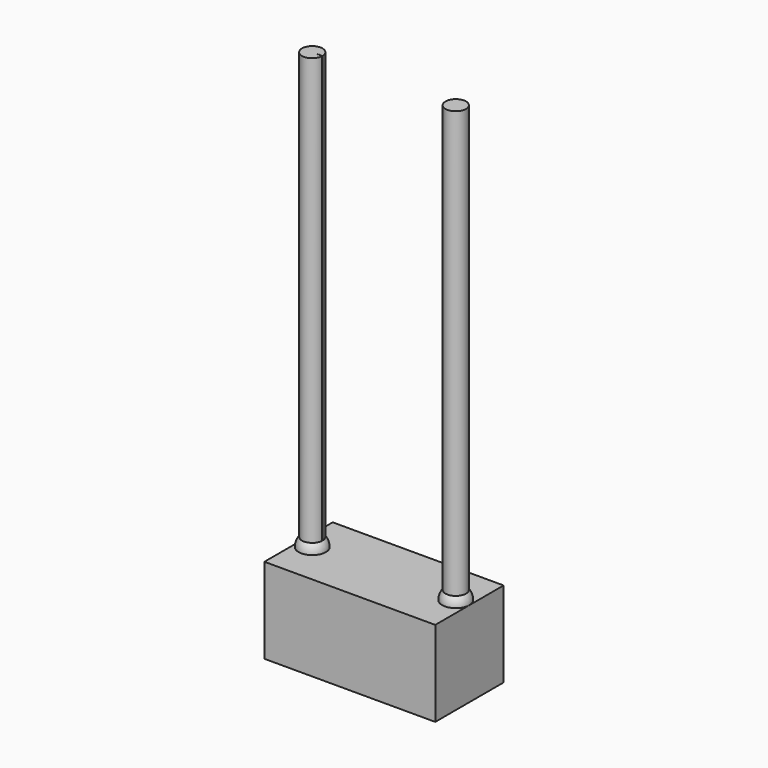
from build123d import *

# Parameters (mm, degrees)
BOX_W             = 10
BOX_H             = 5
BOX_DEPTH         = 5
CYLINDER_R        = 0.6
CYLINDER_DEPTH    = 25
CYLINDER001_W     = 0.6
CYLINDER001_H     = 25
CYLINDER001_ANGLE = 358


with BuildPart() as body:
    # Box → Box (join)
    with BuildSketch(Plane.XY):
        with Locations((5, 2.5)):
            Rectangle(BOX_W, BOX_H)
    extrude(amount=BOX_DEPTH)


with BuildPart() as body001:
    # Sphere → Sphere (revolve)
    with BuildSketch(Plane(origin=(0.8, 2.5, 5), x_dir=(1, 0, 0), z_dir=(0, -1, 0))):
        with BuildLine():
            ThreePointArc((0, -0.8), (0.8, 0), (0, 0.8))
            Line((0, 0.8), (0, -0.8))
        make_face()
    revolve(axis=Axis((0.8, 2.5, 5), (0, 0, 1)))

    # Sphere001 → Sphere001 (revolve)
    with BuildSketch(Plane(origin=(9.2, 2.5, 5), x_dir=(1, 0, 0), z_dir=(0, -1, 0))):
        with BuildLine():
            ThreePointArc((0, -0.8), (0.8, 0), (0, 0.8))
            Line((0, 0.8), (0, -0.8))
        make_face()
    revolve(axis=Axis((9.2, 2.5, 5), (0, 0, 1)))


with BuildPart() as body003:
    # Cylinder → Cylinder (join)
    with BuildSketch(Plane(origin=(9.2, 2.5, 5.5), x_dir=(1, 0, 0), z_dir=(0, 0, 1))):
        Circle(CYLINDER_R)
    extrude(amount=CYLINDER_DEPTH)

    # Cylinder001 → Cylinder001 (revolve)
    with BuildSketch(Plane(origin=(0.8, 2.5, 5.5), x_dir=(1, 0, 0), z_dir=(0, -1, 0))):
        with Locations((0.3, 12.5)):
            Rectangle(CYLINDER001_W, CYLINDER001_H)
    revolve(axis=Axis((0.8, 2.5, 5.5), (0, 0, 1)), revolution_arc=CYLINDER001_ANGLE)


solid = Compound([body.part, body001.part, body003.part])
